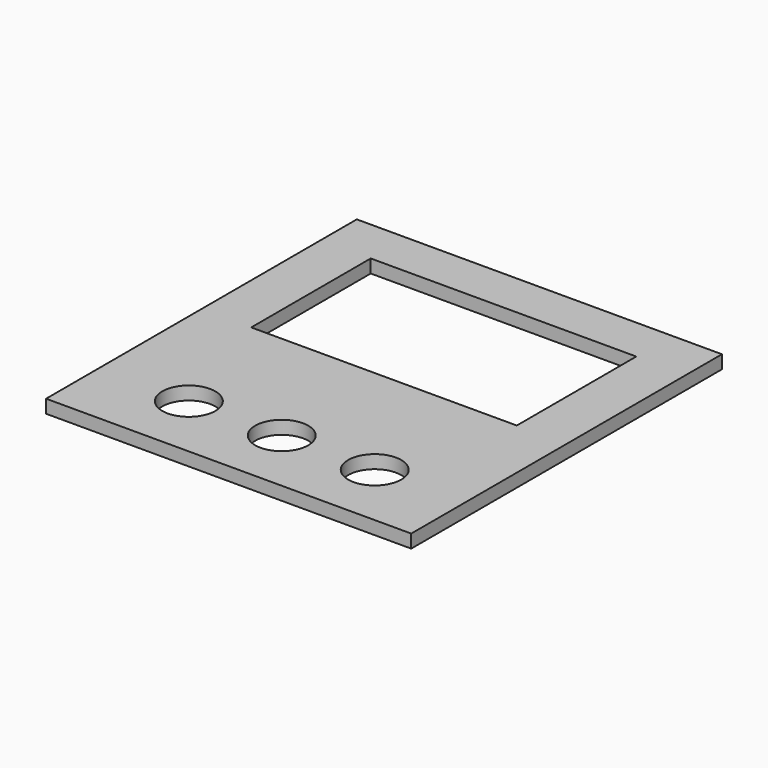
from build123d import *

# Parameters (mm, degrees)
SKETCH_W   = 110
SKETCH_H   = 117
SKETCH_R   = 8
SKETCH_W_2 = 80
SKETCH_H_2 = 45
PAD_DEPTH  = 4


with BuildPart() as part:
    # Sketch → Pad (new body)
    with BuildSketch(Plane.XY):
        Rectangle(SKETCH_W, SKETCH_H)
        with Locations((0, -38.5)):
            Circle(SKETCH_R, mode=Mode.SUBTRACT)
        with Locations((-28, -38.5)):
            Circle(SKETCH_R, mode=Mode.SUBTRACT)
        with Locations((28, -38.5)):
            Circle(SKETCH_R, mode=Mode.SUBTRACT)
        with Locations((0, 22.5)):
            Rectangle(SKETCH_W_2, SKETCH_H_2, mode=Mode.SUBTRACT)
    extrude(amount=PAD_DEPTH)


solid = part.part
